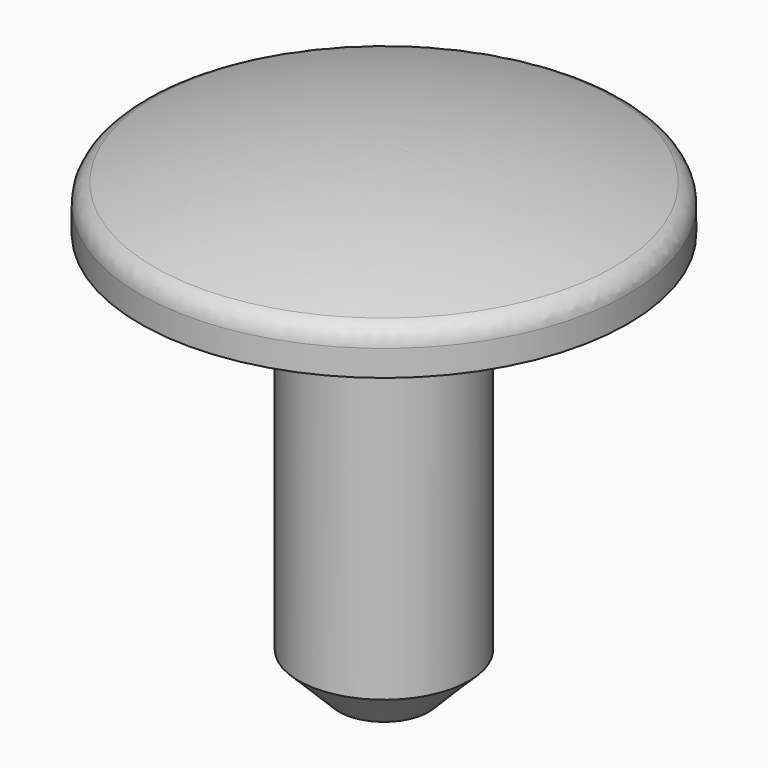
from build123d import *

# Parameters (mm, degrees)
F2_SIZE = 1
F3_R    = 0.5


with BuildPart() as f1:
    # F0 (on Front) → F1 (revolve)
    with BuildSketch(Plane.XZ):
        with BuildLine():
            Line((0, 12), (0, 0))
            Line((0, 0), (2.1, 0))
            Line((2.1, 0), (2.1, 10))
            Line((2.1, 10), (6, 10))
            Line((6, 10), (6, 11))
            ThreePointArc((6, 11), (3.041381, 11.748288), (0, 12))
        make_face()
    revolve(axis=Axis((0, 0, 6), (0, 0, 1)))

    # F2
    f2_edges = [f1.edges().sort_by_distance(p)[0] for p in [
        (-2.1, 0, 0),
    ]]
    chamfer(f2_edges, length=F2_SIZE)

    # F3
    f3_edges = [f1.edges().sort_by_distance(p)[0] for p in [
        (-6, 0, 11),
    ]]
    fillet(f3_edges, radius=F3_R)


solid = f1.part
